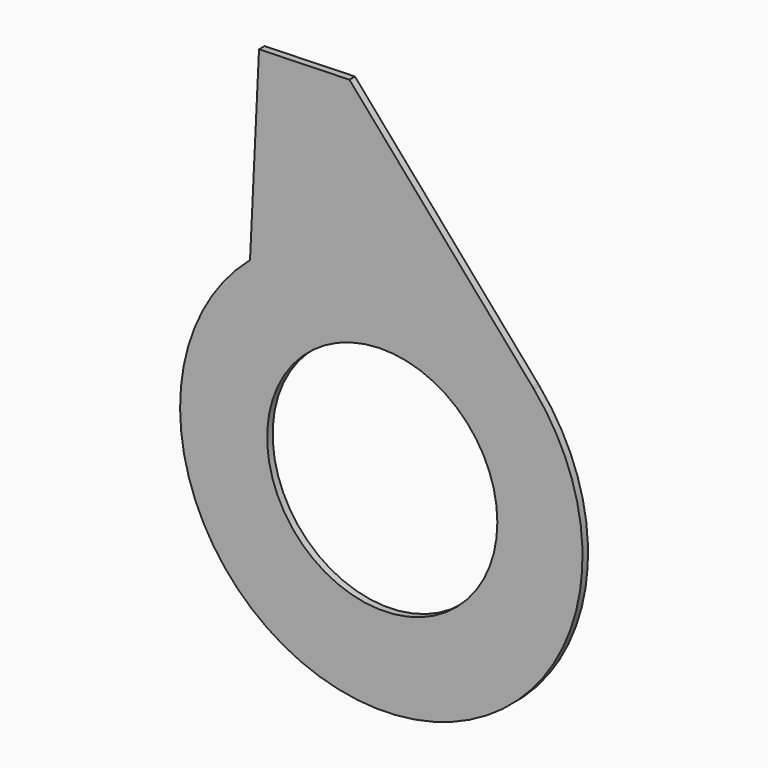
from build123d import *

# Parameters (mm, degrees)
F0_R     = 100
F1_DEPTH = 6


with BuildPart() as f1:
    # F0 (on Front) → F1 (new body)
    with BuildSketch(Plane.XZ):
        with BuildLine():
            Line((262.411714, -184.528433), (263.519588, -185.804495))
            ThreePointArc((263.519588, -185.804495), (262.967193, -185.165125), (262.411714, -184.528433))
        make_face()
        with BuildLine():
            Line((24.723456, -3.519507), (16.907266, -167.289172))
            ThreePointArc((16.907266, -167.289172), (117.873865, -474.095573), (263.519588, -185.804495))
            Line((263.519588, -185.804495), (262.411714, -184.528433))
            Line((262.411714, -184.528433), (103.280142, -1.238735))
            Line((103.280142, -1.238735), (24.723456, -3.519507))
        make_face()
        with Locations((131.77757, -297.979613)):
            Circle(F0_R, mode=Mode.SUBTRACT)
    extrude(amount=F1_DEPTH)


solid = f1.part
